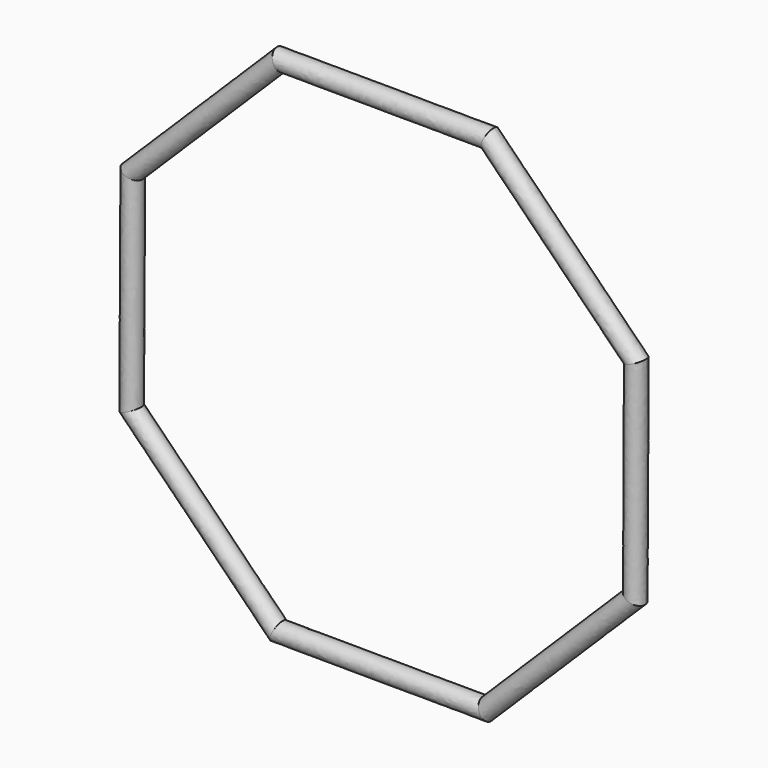
from build123d import *

# Parameters (mm, degrees)
F10_R = 12.7


with BuildPart() as f11:
    # F11: sweep along a path in F6
    with BuildLine(Plane.XZ.offset(-203.2)) as f11_path:
        Line((137.9209160805, 328.4617364407), (329.7823362255, 134.7327061695))
        Line((329.7823362255, 134.7327061695), (328.4617364407, -137.9209160805))
        Line((328.4617364407, -137.9209160805), (134.7327061695, -329.7823362255))
        Line((134.7327061695, -329.7823362255), (-137.9209160805, -328.4617364407))
        Line((-137.9209160805, -328.4617364407), (-329.7823362255, -134.7327061695))
        Line((-329.7823362255, -134.7327061695), (-328.4617364407, 137.9209160805))
        Line((-328.4617364407, 137.9209160805), (-134.7327061695, 329.7823362255))
        Line((-134.7327061695, 329.7823362255), (137.9209160805, 328.4617364407))
    # F10 (on line) → F11 (sweep)
    with BuildSketch(Plane.XY.offset(111.8234823072)):
        with Locations((-329.7804296017, 203.2024562359)):
            Circle(F10_R)
    sweep(path=f11_path.line, transition=Transition.RIGHT)


solid = f11.part
